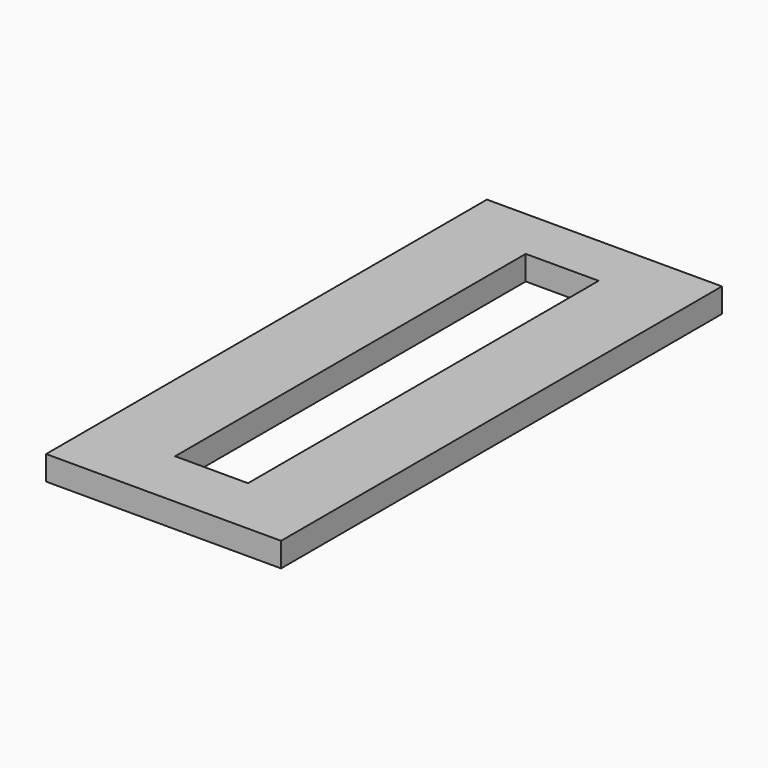
from build123d import *

# Parameters (mm, degrees)
F0_W     = 127
F0_H     = 686.889625
F0_H_2   = 93.98
F0_W_2   = 114.3
F0_H_3   = 82.730375
F1_DEPTH = 38.1


with BuildPart() as f1:
    # F0 (on Top) → F1 (new body)
    with BuildSketch(Plane.XY):
        with Locations((-59.372775, 4.420739)):
            Rectangle(F0_W, F0_H)
        with Locations((-59.372775, -386.014073)):
            Rectangle(F0_W, F0_H_2)
        with Locations((61.277225, -386.014073)):
            Rectangle(F0_W_2, F0_H_2)
        with Locations((181.927225, -386.014073)):
            Rectangle(F0_W, F0_H_2)
        with Locations((181.927225, 4.420739)):
            Rectangle(F0_W, F0_H)
        with Locations((181.927225, 389.230739)):
            Rectangle(F0_W, F0_H_3)
        with Locations((61.277225, 389.230739)):
            Rectangle(F0_W_2, F0_H_3)
        with Locations((-59.372775, 389.230739)):
            Rectangle(F0_W, F0_H_3)
    extrude(amount=F1_DEPTH)


solid = f1.part
